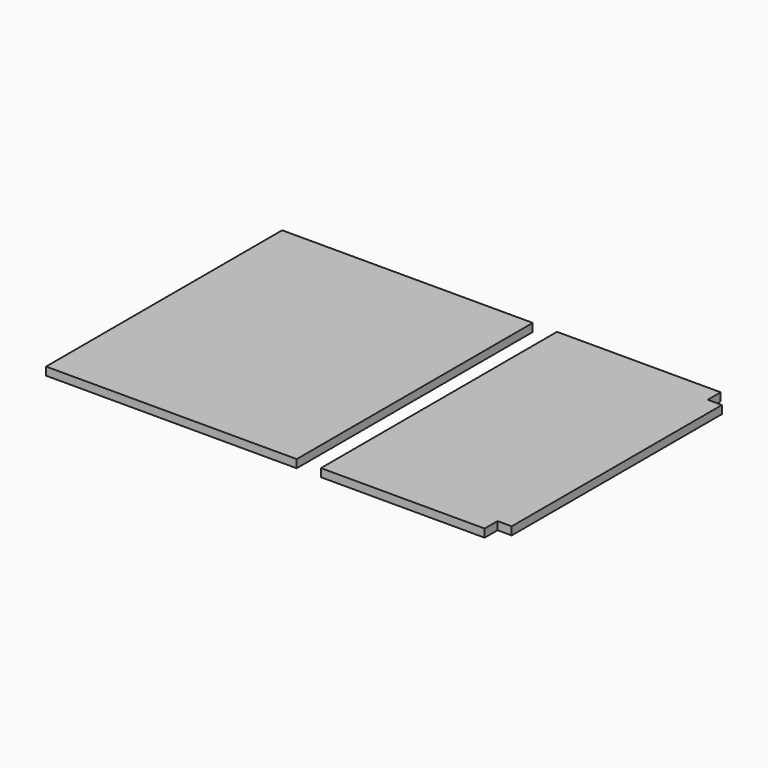
from build123d import *

# Parameters (mm, degrees)
F0_W     = 787.4
F0_H     = 927.1
F1_DEPTH = 25.4


with BuildPart() as f1:
    # F0 (on Top) → F1 (new body)
    with BuildSketch(Plane.XY):
        with Locations((393.7, 463.55)):
            Rectangle(F0_W, F0_H)
        Polygon((863.6, 927.1), (863.6, 0), (1377.95, 0), (1377.95, 50.8), (1422.4, 50.8), (1422.4, 876.3), (1377.95, 876.3), (1377.95, 927.1), align=None)
    extrude(amount=F1_DEPTH)


solid = f1.part
